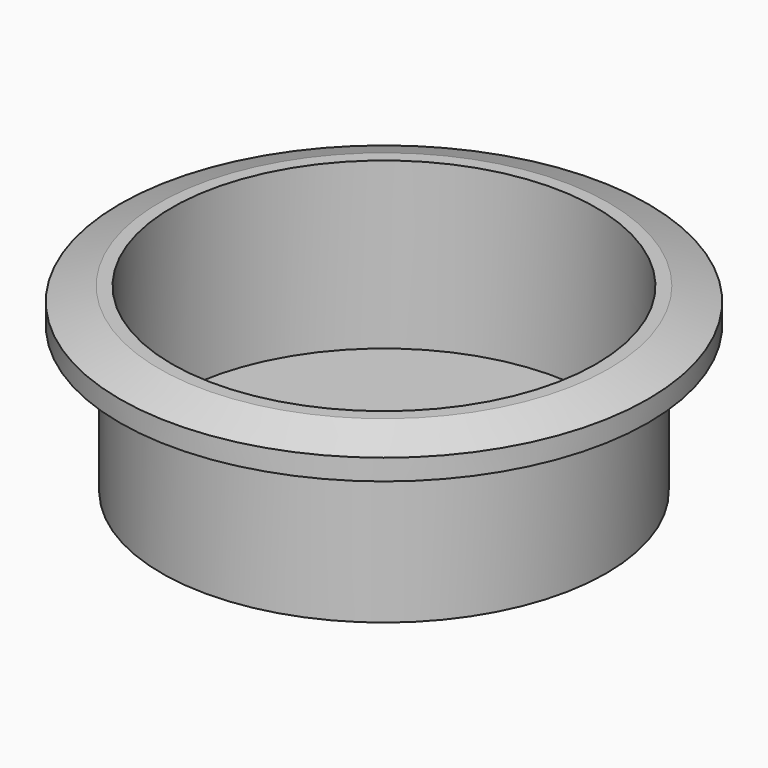
from build123d import *

# Parameters (mm, degrees)
F2_W = 15.25
F2_H = 13
F5_W = 3.1
F5_H = 4.190033


with BuildPart() as f1:
    # F0 (on Front) → F1 (revolve)
    with BuildSketch(Plane.XZ):
        Polygon((16.171061, 13), (0, 13), (0, 0), (16, 0), (16, 10.501449), (19, 10.501449), (19, 12.001449), align=None)
    revolve(axis=Axis((0, 0, 6.5), (0, 0, 1)))


with BuildPart() as f3:
    # F2 (on Front) → F3 (revolve)
    with BuildSketch(Plane.XZ):
        with Locations((7.625, 7.594327)):
            Rectangle(F2_W, F2_H)
    revolve(axis=Axis((0, 0, 7.594327), (0, 0, -1)))


with BuildPart() as f1_1:
    add(f1.part)

    # F4: cut F3
    add(f3.part, mode=Mode.SUBTRACT)


with BuildPart() as f6:
    # F5 (on Front) → F6 (revolve)
    with BuildSketch(Plane.XZ):
        with Locations((1.55, 1.039109)):
            Rectangle(F5_W, F5_H)
    revolve(axis=Axis((0, 0, 1.03911), (0, 0, -1)))


with BuildPart() as f1_2:
    add(f1_1.part)

    # F7: cut F6
    add(f6.part, mode=Mode.SUBTRACT)


solid = f1_2.part
